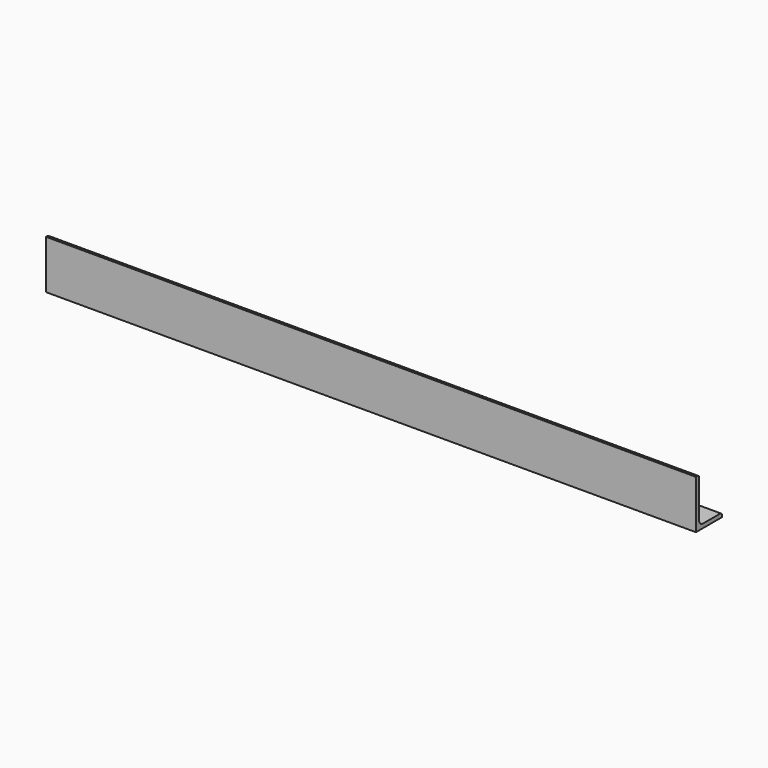
from build123d import *

# Parameters (mm, degrees)
F1_DEPTH = 800


with BuildPart() as f1:
    # F0 (on Right) → F1 (new body, symmetric)
    with BuildSketch(Plane.YZ):
        with BuildLine():
            Line((0, 120), (0, 0))
            Line((0, 0), (80, 0))
            Line((80, 0), (80, 4.5))
            ThreePointArc((80, 4.5), (78.389087, 8.389087), (74.5, 10))
            Line((74.5, 10), (21, 10))
            ThreePointArc((21, 10), (13.221825, 13.221825), (10, 21))
            Line((10, 21), (10, 114.5))
            ThreePointArc((10, 114.5), (8.389087, 118.389087), (4.5, 120))
            Line((4.5, 120), (0, 120))
        make_face()
    extrude(amount=F1_DEPTH, both=True)


solid = f1.part
